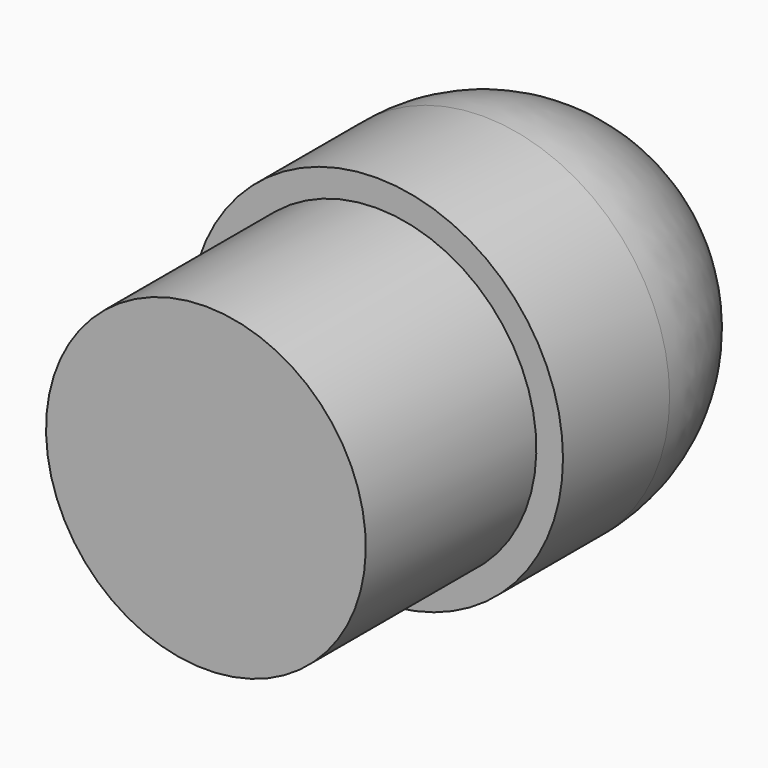
from build123d import *


with BuildPart() as f1:
    # F0 (on Right) → F1 (revolve)
    with BuildSketch(Plane.YZ):
        with BuildLine():
            Line((-102.441176, 24.507755), (-102.441176, 9.507755))
            Line((-102.441176, 9.507755), (-69.941176, 9.507755))
            Line((-69.941176, 9.507755), (-52.441176, 9.507755))
            ThreePointArc((-52.441176, 9.507755), (-57.566807, 21.882123), (-69.941176, 27.007755))
            Line((-69.941176, 27.007755), (-82.441176, 27.007755))
            Line((-82.441176, 27.007755), (-82.441176, 24.507755))
            Line((-82.441176, 24.507755), (-102.441176, 24.507755))
        make_face()
    revolve(axis=Axis((0, -86.191176, 9.507755), (0, -1, 0)))


solid = f1.part
